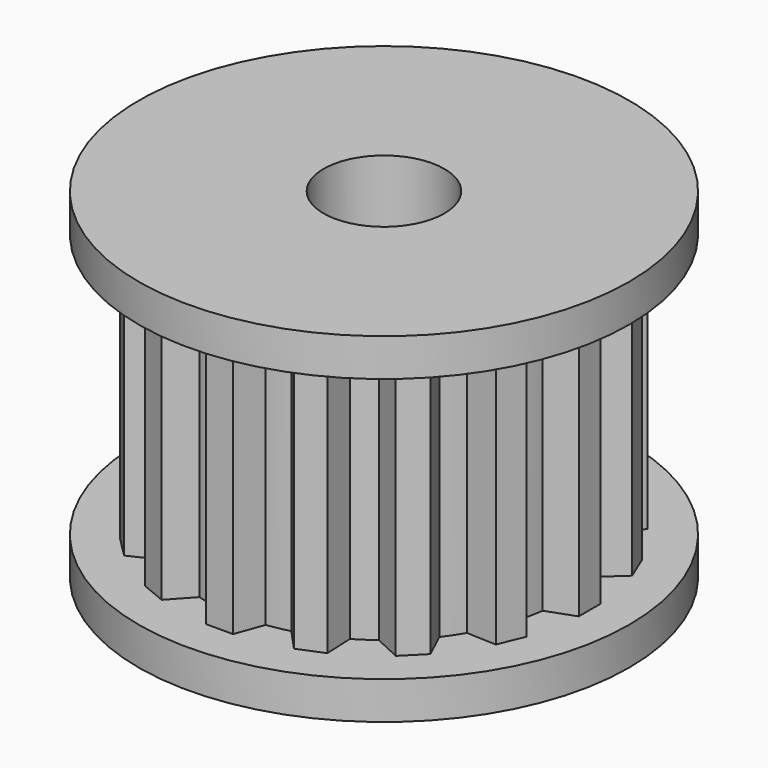
from build123d import *

# Parameters (mm, degrees)
F0_R     = 1.6
F1_DEPTH = 3.5
F3_COUNT = 16
F5_R     = 6.5
F6_DEPTH = 1
F7_R     = 6.5
F8_DEPTH = 1
F9_DEPTH = 12.5


with BuildPart() as f1:
    # F0 (on Top) → F1 (new body, symmetric)
    with BuildSketch(Plane.XY):
        with BuildLine():
            ThreePointArc((-0.6307960914, 4.7079290873), (-3.1277962342, -3.5748273689), (4.75, 0))
            ThreePointArc((4.75, 0), (3.5748273689, 3.1277962342), (0.6307960914, 4.7079290873))
            Line((0.6307960914, 4.7079290873), (0.75, 4.3804190402))
            Line((0.75, 4.3804190402), (-0.75, 4.3804190402))
            Line((-0.75, 4.3804190402), (-0.6307960914, 4.7079290873))
        make_face()
        Circle(F0_R, mode=Mode.SUBTRACT)
        with BuildLine():
            ThreePointArc((-0.6307960914, 4.7079290873), (0, 4.75), (0.6307960914, 4.7079290873))
            Line((0.6307960914, 4.7079290873), (0.3607043675, 5.45))
            Line((0.3607043675, 5.45), (-0.3607043675, 5.45))
            Line((-0.3607043675, 5.45), (-0.6307960914, 4.7079290873))
        make_face()
        with BuildLine():
            Line((0.75, 4.3804190402), (0.6307960914, 4.7079290873))
            ThreePointArc((0.6307960914, 4.7079290873), (0, 4.75), (-0.6307960914, 4.7079290873))
            Line((-0.6307960914, 4.7079290873), (-0.75, 4.3804190402))
            Line((-0.75, 4.3804190402), (0.75, 4.3804190402))
        make_face()
    extrude(amount=F1_DEPTH, both=True)


with BuildPart() as f3_1:
    # F3: instance of F1
    add(f1.part.rotate(Axis((0, 0, 0.113066053), (0, 0, -1)), 1 * 360 / F3_COUNT))


with BuildPart() as f3_2:
    # F3: instance of F1
    add(f1.part.rotate(Axis((0, 0, 0.113066053), (0, 0, -1)), 2 * 360 / F3_COUNT))


with BuildPart() as f3_3:
    # F3: instance of F1
    add(f1.part.rotate(Axis((0, 0, 0.113066053), (0, 0, -1)), 3 * 360 / F3_COUNT))


with BuildPart() as f3_4:
    # F3: instance of F1
    add(f1.part.rotate(Axis((0, 0, 0.113066053), (0, 0, -1)), 4 * 360 / F3_COUNT))


with BuildPart() as f3_5:
    # F3: instance of F1
    add(f1.part.rotate(Axis((0, 0, 0.113066053), (0, 0, -1)), 5 * 360 / F3_COUNT))


with BuildPart() as f3_6:
    # F3: instance of F1
    add(f1.part.rotate(Axis((0, 0, 0.113066053), (0, 0, -1)), 6 * 360 / F3_COUNT))


with BuildPart() as f3_7:
    # F3: instance of F1
    add(f1.part.rotate(Axis((0, 0, 0.113066053), (0, 0, -1)), 7 * 360 / F3_COUNT))


with BuildPart() as f3_8:
    # F3: instance of F1
    add(f1.part.rotate(Axis((0, 0, 0.113066053), (0, 0, -1)), 8 * 360 / F3_COUNT))


with BuildPart() as f3_9:
    # F3: instance of F1
    add(f1.part.rotate(Axis((0, 0, 0.113066053), (0, 0, -1)), 9 * 360 / F3_COUNT))


with BuildPart() as f3_10:
    # F3: instance of F1
    add(f1.part.rotate(Axis((0, 0, 0.113066053), (0, 0, -1)), 10 * 360 / F3_COUNT))


with BuildPart() as f3_11:
    # F3: instance of F1
    add(f1.part.rotate(Axis((0, 0, 0.113066053), (0, 0, -1)), 11 * 360 / F3_COUNT))


with BuildPart() as f3_12:
    # F3: instance of F1
    add(f1.part.rotate(Axis((0, 0, 0.113066053), (0, 0, -1)), 12 * 360 / F3_COUNT))


with BuildPart() as f3_13:
    # F3: instance of F1
    add(f1.part.rotate(Axis((0, 0, 0.113066053), (0, 0, -1)), 13 * 360 / F3_COUNT))


with BuildPart() as f3_14:
    # F3: instance of F1
    add(f1.part.rotate(Axis((0, 0, 0.113066053), (0, 0, -1)), 14 * 360 / F3_COUNT))


with BuildPart() as f3_15:
    # F3: instance of F1
    add(f1.part.rotate(Axis((0, 0, 0.113066053), (0, 0, -1)), 15 * 360 / F3_COUNT))


with BuildPart() as f3_1_1:
    add(f3_1.part)

    # F4: union F3_2, F3_3, F3_4, F3_5, F3_7, F3_9, F3_10, F3_8, F3_6, F3_11, F3_12, F3_14, F1, F3_13, F3_15
    add(f3_2.part)
    add(f3_3.part)
    add(f3_4.part)
    add(f3_5.part)
    add(f3_7.part)
    add(f3_9.part)
    add(f3_10.part)
    add(f3_8.part)
    add(f3_6.part)
    add(f3_11.part)
    add(f3_12.part)
    add(f3_14.part)
    add(f1.part)
    add(f3_13.part)
    add(f3_15.part)

    # F5 (on face) → F6 (join)
    with BuildSketch(Plane.XY.offset(3.5)):
        Circle(F5_R)
    extrude(amount=F6_DEPTH)

    # F7 (on face) → F8 (join)
    with BuildSketch(Plane(origin=(0, 0, -3.5), x_dir=(1, 0, 0), z_dir=(0, 0, -1))):
        Circle(F7_R)
    extrude(amount=F8_DEPTH)

    # F0 (on Top) → F9 (cut, symmetric)
    with BuildSketch(Plane.XY):
        Circle(F0_R)
    extrude(amount=F9_DEPTH, both=True, mode=Mode.SUBTRACT)


solid = f3_1_1.part
